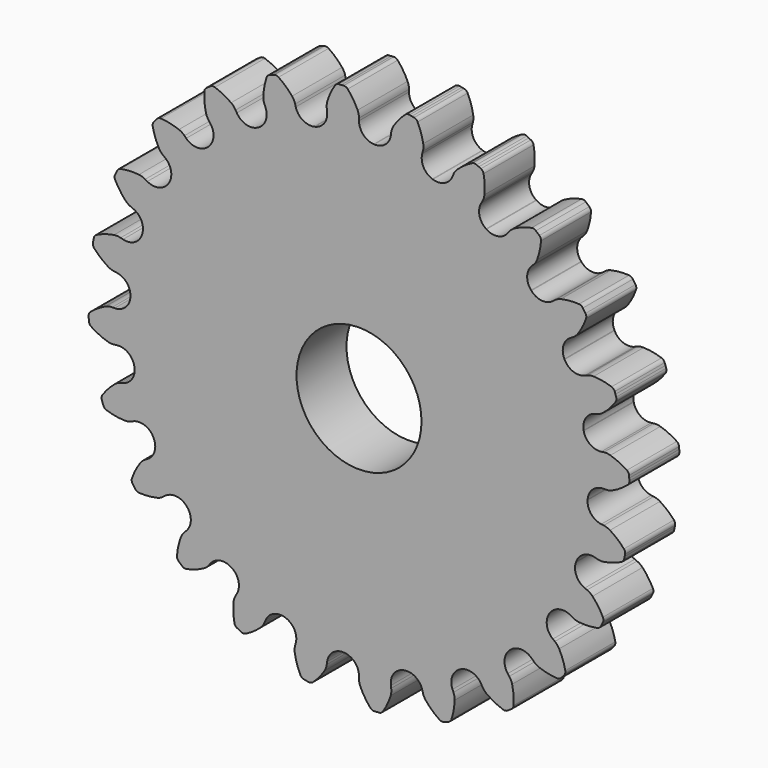
from build123d import *

# Parameters (mm, degrees)
F1_DEPTH = 6.35
F2_R     = 6.35
F3_DEPTH = 6.351


with BuildPart() as f1:
    # F0 (on Front) → F1 (new body)
    with BuildSketch(Plane.XZ):
        with BuildLine():
            ThreePointArc((-3.240676, 24.61538), (-3.526976, 23.473725), (-4.516709, 22.836721))
            ThreePointArc((-4.516709, 22.836721), (-4.541527, 22.831799), (-4.56634, 22.826849))
            ThreePointArc((-4.56634, 22.826849), (-5.724505, 23.036609), (-6.425904, 23.981799))
            Line((-6.425904, 23.981799), (-6.491313, 24.225911))
            ThreePointArc((-6.491313, 24.225911), (-6.61355, 24.54282), (-6.799923, 24.82679))
            ThreePointArc((-6.799923, 24.82679), (-7.441013, 25.500712), (-8.173676, 26.07375))
            ThreePointArc((-8.173676, 26.07375), (-8.389836, 26.155366), (-8.619786, 26.132799))
            Line((-8.619786, 26.132799), (-8.844945, 26.056367))
            Line((-8.844945, 26.056367), (-9.070104, 25.979936))
            ThreePointArc((-9.070104, 25.979936), (-9.266274, 25.857855), (-9.388081, 25.661515))
            ThreePointArc((-9.388081, 25.661515), (-9.620498, 24.760877), (-9.718851, 23.835948))
            ThreePointArc((-9.718851, 23.835948), (-9.69384, 23.497203), (-9.597895, 23.171368))
            Line((-9.597895, 23.171368), (-9.501182, 22.937883))
            ThreePointArc((-9.501182, 22.937883), (-9.482244, 21.761028), (-10.273384, 20.889569))
            ThreePointArc((-10.273384, 20.889569), (-10.296083, 20.87839), (-10.318769, 20.867187))
            ThreePointArc((-10.318769, 20.867187), (-11.49176, 20.770045), (-12.413893, 21.501493))
            Line((-12.413893, 21.501493), (-12.540254, 21.720357))
            ThreePointArc((-12.540254, 21.720357), (-12.740348, 21.994831), (-12.993867, 22.220889))
            ThreePointArc((-12.993867, 22.220889), (-13.787536, 22.705921), (-14.643548, 23.069806))
            ThreePointArc((-14.643548, 23.069806), (-14.873466, 23.092694), (-15.08974, 23.01138))
            Line((-15.08974, 23.01138), (-15.287445, 22.879278))
            Line((-15.287445, 22.879278), (-15.48515, 22.747176))
            ThreePointArc((-15.48515, 22.747176), (-15.643038, 22.578482), (-15.709878, 22.357306))
            ThreePointArc((-15.709878, 22.357306), (-15.701274, 21.427202), (-15.556887, 20.508334))
            ThreePointArc((-15.556887, 20.508334), (-15.445054, 20.187605), (-15.268046, 19.897705))
            Line((-15.268046, 19.897705), (-15.114198, 19.697206))
            ThreePointArc((-15.114198, 19.697206), (-14.791313, 18.565354), (-15.329945, 17.518826))
            ThreePointArc((-15.329945, 17.518826), (-15.348977, 17.502154), (-15.367991, 17.485461))
            ThreePointArc((-15.367991, 17.485461), (-16.475871, 17.088036), (-17.555895, 17.555895))
            Line((-17.555895, 17.555895), (-17.734598, 17.734598))
            ThreePointArc((-17.734598, 17.734598), (-17.998913, 17.947931), (-18.302301, 18.10067))
            ThreePointArc((-18.302301, 18.10067), (-19.194462, 18.363758), (-20.115486, 18.493692))
            ThreePointArc((-20.115486, 18.493692), (-20.343494, 18.456293), (-20.531353, 18.321775))
            Line((-20.531353, 18.321775), (-20.688131, 18.143004))
            Line((-20.688131, 18.143004), (-20.844909, 17.964233))
            ThreePointArc((-20.844909, 17.964233), (-20.953756, 17.760423), (-20.961074, 17.529484))
            ThreePointArc((-20.961074, 17.529484), (-20.712034, 16.6333), (-20.334746, 15.783111))
            ThreePointArc((-20.334746, 15.783111), (-20.143713, 15.502255), (-19.897705, 15.268046))
            Line((-19.897705, 15.268046), (-19.697206, 15.114198))
            ThreePointArc((-19.697206, 15.114198), (-19.092378, 14.104481), (-19.341796, 12.954205))
            ThreePointArc((-19.341796, 12.954205), (-19.355864, 12.933175), (-19.36991, 12.91213))
            ThreePointArc((-19.36991, 12.91213), (-20.337179, 12.241506), (-21.501493, 12.413893))
            Line((-21.501493, 12.413893), (-21.720357, 12.540254))
            ThreePointArc((-21.720357, 12.540254), (-22.030881, 12.677908), (-22.363463, 12.74692))
            ThreePointArc((-22.363463, 12.74692), (-23.293317, 12.770136), (-24.216587, 12.657264))
            ThreePointArc((-24.216587, 12.657264), (-24.427146, 12.562127), (-24.573788, 12.38357))
            Line((-24.573788, 12.38357), (-24.678955, 12.170314))
            Line((-24.678955, 12.170314), (-24.784121, 11.957057))
            ThreePointArc((-24.784121, 11.957057), (-24.83651, 11.73202), (-24.783807, 11.507056))
            ThreePointArc((-24.783807, 11.507056), (-24.311303, 10.705865), (-23.726826, 9.982295))
            ThreePointArc((-23.726826, 9.982295), (-23.469612, 9.760451), (-23.171368, 9.597895))
            Line((-23.171368, 9.597895), (-22.937883, 9.501182))
            ThreePointArc((-22.937883, 9.501182), (-22.09233, 8.682412), (-22.035535, 7.506776))
            ThreePointArc((-22.035535, 7.506776), (-22.043681, 7.482821), (-22.051801, 7.458858))
            ThreePointArc((-22.051801, 7.458858), (-22.812541, 6.560738), (-23.981799, 6.425904))
            Line((-23.981799, 6.425904), (-24.225911, 6.491313))
            ThreePointArc((-24.225911, 6.491313), (-24.561481, 6.543908), (-24.900593, 6.524489))
            ThreePointArc((-24.900593, 6.524489), (-25.804771, 6.30625), (-26.667368, 5.958264))
            ThreePointArc((-26.667368, 5.958264), (-26.846129, 5.811872), (-26.94156, 5.601446))
            Line((-26.94156, 5.601446), (-26.987948, 5.368237))
            Line((-26.987948, 5.368237), (-27.034337, 5.135028))
            ThreePointArc((-27.034337, 5.135028), (-27.026696, 4.904099), (-26.917565, 4.700441))
            ThreePointArc((-26.917565, 4.700441), (-26.253797, 4.048843), (-25.501962, 3.501202))
            ThreePointArc((-25.501962, 3.501202), (-25.196095, 3.35349), (-24.865941, 3.273663))
            Line((-24.865941, 3.273663), (-24.61538, 3.240676))
            ThreePointArc((-24.61538, 3.240676), (-23.586725, 2.66865), (-23.227589, 1.547773))
            ThreePointArc((-23.227589, 1.547773), (-23.229258, 1.522526), (-23.230899, 1.497277))
            ThreePointArc((-23.230899, 1.497277), (-23.733266, 0.432866), (-24.827785, 0))
            Line((-24.827785, 0), (-25.080508, 0))
            ThreePointArc((-25.080508, 0), (-25.418257, -0.03605), (-25.740788, -0.142575))
            ThreePointArc((-25.740788, -0.142575), (-26.557673, -0.587396), (-27.300812, -1.146781))
            ThreePointArc((-27.300812, -1.146781), (-27.435592, -1.334452), (-27.47331, -1.562408))
            Line((-27.47331, -1.562408), (-27.457758, -1.799677))
            Line((-27.457758, -1.799677), (-27.442207, -2.036945))
            ThreePointArc((-27.442207, -2.036945), (-27.375058, -2.258028), (-27.216935, -2.426501))
            ThreePointArc((-27.216935, -2.426501), (-26.407139, -2.884101), (-25.539181, -3.218492))
            ThreePointArc((-25.539181, -3.218492), (-25.205506, -3.282007), (-24.865941, -3.273663))
            Line((-24.865941, -3.273663), (-24.61538, -3.240676))
            ThreePointArc((-24.61538, -3.240676), (-23.473725, -3.526976), (-22.836721, -4.516709))
            ThreePointArc((-22.836721, -4.516709), (-22.831799, -4.541527), (-22.826849, -4.56634))
            ThreePointArc((-22.826849, -4.56634), (-23.036609, -5.724505), (-23.981799, -6.425904))
            Line((-23.981799, -6.425904), (-24.225911, -6.491313))
            ThreePointArc((-24.225911, -6.491313), (-24.54282, -6.61355), (-24.82679, -6.799923))
            ThreePointArc((-24.82679, -6.799923), (-25.500712, -7.441013), (-26.07375, -8.173676))
            ThreePointArc((-26.07375, -8.173676), (-26.155366, -8.389836), (-26.132799, -8.619786))
            Line((-26.132799, -8.619786), (-26.056367, -8.844945))
            Line((-26.056367, -8.844945), (-25.979936, -9.070104))
            ThreePointArc((-25.979936, -9.070104), (-25.857855, -9.266274), (-25.661515, -9.388081))
            ThreePointArc((-25.661515, -9.388081), (-24.760877, -9.620498), (-23.835948, -9.718851))
            ThreePointArc((-23.835948, -9.718851), (-23.497203, -9.69384), (-23.171368, -9.597895))
            Line((-23.171368, -9.597895), (-22.937883, -9.501182))
            ThreePointArc((-22.937883, -9.501182), (-21.761028, -9.482244), (-20.889569, -10.273384))
            ThreePointArc((-20.889569, -10.273384), (-20.87839, -10.296083), (-20.867187, -10.318769))
            ThreePointArc((-20.867187, -10.318769), (-20.770045, -11.49176), (-21.501493, -12.413893))
            Line((-21.501493, -12.413893), (-21.720357, -12.540254))
            ThreePointArc((-21.720357, -12.540254), (-21.994831, -12.740348), (-22.220889, -12.993867))
            ThreePointArc((-22.220889, -12.993867), (-22.705921, -13.787536), (-23.069806, -14.643548))
            ThreePointArc((-23.069806, -14.643548), (-23.092694, -14.873466), (-23.01138, -15.08974))
            Line((-23.01138, -15.08974), (-22.879278, -15.287445))
            Line((-22.879278, -15.287445), (-22.747176, -15.48515))
            ThreePointArc((-22.747176, -15.48515), (-22.578482, -15.643038), (-22.357306, -15.709878))
            ThreePointArc((-22.357306, -15.709878), (-21.427202, -15.701274), (-20.508334, -15.556887))
            ThreePointArc((-20.508334, -15.556887), (-20.187605, -15.445054), (-19.897705, -15.268046))
            Line((-19.897705, -15.268046), (-19.697206, -15.114198))
            ThreePointArc((-19.697206, -15.114198), (-18.565354, -14.791313), (-17.518826, -15.329945))
            ThreePointArc((-17.518826, -15.329945), (-17.502154, -15.348977), (-17.485461, -15.367991))
            ThreePointArc((-17.485461, -15.367991), (-17.088036, -16.475871), (-17.555895, -17.555895))
            Line((-17.555895, -17.555895), (-17.734598, -17.734598))
            ThreePointArc((-17.734598, -17.734598), (-17.947931, -17.998913), (-18.10067, -18.302301))
            ThreePointArc((-18.10067, -18.302301), (-18.363758, -19.194462), (-18.493692, -20.115486))
            ThreePointArc((-18.493692, -20.115486), (-18.456293, -20.343494), (-18.321775, -20.531353))
            Line((-18.321775, -20.531353), (-18.143004, -20.688131))
            Line((-18.143004, -20.688131), (-17.964233, -20.844909))
            ThreePointArc((-17.964233, -20.844909), (-17.760423, -20.953756), (-17.529484, -20.961074))
            ThreePointArc((-17.529484, -20.961074), (-16.6333, -20.712034), (-15.783111, -20.334746))
            ThreePointArc((-15.783111, -20.334746), (-15.502255, -20.143713), (-15.268046, -19.897705))
            Line((-15.268046, -19.897705), (-15.114198, -19.697206))
            ThreePointArc((-15.114198, -19.697206), (-14.104481, -19.092378), (-12.954205, -19.341796))
            ThreePointArc((-12.954205, -19.341796), (-12.933175, -19.355864), (-12.91213, -19.36991))
            ThreePointArc((-12.91213, -19.36991), (-12.241506, -20.337179), (-12.413893, -21.501493))
            Line((-12.413893, -21.501493), (-12.540254, -21.720357))
            ThreePointArc((-12.540254, -21.720357), (-12.677908, -22.030881), (-12.74692, -22.363463))
            ThreePointArc((-12.74692, -22.363463), (-12.770136, -23.293317), (-12.657264, -24.216587))
            ThreePointArc((-12.657264, -24.216587), (-12.562127, -24.427146), (-12.38357, -24.573788))
            Line((-12.38357, -24.573788), (-12.170314, -24.678955))
            Line((-12.170314, -24.678955), (-11.957057, -24.784121))
            ThreePointArc((-11.957057, -24.784121), (-11.73202, -24.83651), (-11.507056, -24.783807))
            ThreePointArc((-11.507056, -24.783807), (-10.705865, -24.311303), (-9.982295, -23.726826))
            ThreePointArc((-9.982295, -23.726826), (-9.760451, -23.469612), (-9.597895, -23.171368))
            Line((-9.597895, -23.171368), (-9.501182, -22.937883))
            ThreePointArc((-9.501182, -22.937883), (-8.682412, -22.09233), (-7.506776, -22.035535))
            ThreePointArc((-7.506776, -22.035535), (-7.482821, -22.043681), (-7.458858, -22.051801))
            ThreePointArc((-7.458858, -22.051801), (-6.560738, -22.812541), (-6.425904, -23.981799))
            Line((-6.425904, -23.981799), (-6.491313, -24.225911))
            ThreePointArc((-6.491313, -24.225911), (-6.543908, -24.561481), (-6.524489, -24.900593))
            ThreePointArc((-6.524489, -24.900593), (-6.30625, -25.804771), (-5.958264, -26.667368))
            ThreePointArc((-5.958264, -26.667368), (-5.811872, -26.846129), (-5.601446, -26.94156))
            Line((-5.601446, -26.94156), (-5.368237, -26.987948))
            Line((-5.368237, -26.987948), (-5.135028, -27.034337))
            ThreePointArc((-5.135028, -27.034337), (-4.904099, -27.026696), (-4.700441, -26.917565))
            ThreePointArc((-4.700441, -26.917565), (-4.048843, -26.253797), (-3.501202, -25.501962))
            ThreePointArc((-3.501202, -25.501962), (-3.35349, -25.196095), (-3.273663, -24.865941))
            Line((-3.273663, -24.865941), (-3.240676, -24.61538))
            ThreePointArc((-3.240676, -24.61538), (-2.66865, -23.586725), (-1.547773, -23.227589))
            ThreePointArc((-1.547773, -23.227589), (-1.522526, -23.229258), (-1.497277, -23.230899))
            ThreePointArc((-1.497277, -23.230899), (-0.432866, -23.733266), (0, -24.827785))
            Line((0, -24.827785), (0, -25.080508))
            ThreePointArc((0, -25.080508), (0.03605, -25.418257), (0.142575, -25.740788))
            ThreePointArc((0.142575, -25.740788), (0.587396, -26.557673), (1.146781, -27.300812))
            ThreePointArc((1.146781, -27.300812), (1.334452, -27.435592), (1.562408, -27.47331))
            Line((1.562408, -27.47331), (1.799677, -27.457758))
            Line((1.799677, -27.457758), (2.036945, -27.442207))
            ThreePointArc((2.036945, -27.442207), (2.258028, -27.375058), (2.426501, -27.216935))
            ThreePointArc((2.426501, -27.216935), (2.884101, -26.407139), (3.218492, -25.539181))
            ThreePointArc((3.218492, -25.539181), (3.282007, -25.205506), (3.273663, -24.865941))
            Line((3.273663, -24.865941), (3.240676, -24.61538))
            ThreePointArc((3.240676, -24.61538), (3.526976, -23.473725), (4.516709, -22.836721))
            ThreePointArc((4.516709, -22.836721), (4.541527, -22.831799), (4.56634, -22.826849))
            ThreePointArc((4.56634, -22.826849), (5.724505, -23.036609), (6.425904, -23.981799))
            Line((6.425904, -23.981799), (6.491313, -24.225911))
            ThreePointArc((6.491313, -24.225911), (6.61355, -24.54282), (6.799923, -24.82679))
            ThreePointArc((6.799923, -24.82679), (7.441013, -25.500712), (8.173676, -26.07375))
            ThreePointArc((8.173676, -26.07375), (8.389836, -26.155366), (8.619786, -26.132799))
            Line((8.619786, -26.132799), (8.844945, -26.056367))
            Line((8.844945, -26.056367), (9.070104, -25.979936))
            ThreePointArc((9.070104, -25.979936), (9.266274, -25.857855), (9.388081, -25.661515))
            ThreePointArc((9.388081, -25.661515), (9.620498, -24.760877), (9.718851, -23.835948))
            ThreePointArc((9.718851, -23.835948), (9.69384, -23.497203), (9.597895, -23.171368))
            Line((9.597895, -23.171368), (9.501182, -22.937883))
            ThreePointArc((9.501182, -22.937883), (9.482244, -21.761028), (10.273384, -20.889569))
            ThreePointArc((10.273384, -20.889569), (10.296083, -20.87839), (10.318769, -20.867187))
            ThreePointArc((10.318769, -20.867187), (11.49176, -20.770045), (12.413893, -21.501493))
            Line((12.413893, -21.501493), (12.540254, -21.720357))
            ThreePointArc((12.540254, -21.720357), (12.740348, -21.994831), (12.993867, -22.220889))
            ThreePointArc((12.993867, -22.220889), (13.787536, -22.705921), (14.643548, -23.069806))
            ThreePointArc((14.643548, -23.069806), (14.873466, -23.092694), (15.08974, -23.01138))
            Line((15.08974, -23.01138), (15.287445, -22.879278))
            Line((15.287445, -22.879278), (15.48515, -22.747176))
            ThreePointArc((15.48515, -22.747176), (15.643038, -22.578482), (15.709878, -22.357306))
            ThreePointArc((15.709878, -22.357306), (15.701274, -21.427202), (15.556887, -20.508334))
            ThreePointArc((15.556887, -20.508334), (15.445054, -20.187605), (15.268046, -19.897705))
            Line((15.268046, -19.897705), (15.114198, -19.697206))
            ThreePointArc((15.114198, -19.697206), (14.791313, -18.565354), (15.329945, -17.518826))
            ThreePointArc((15.329945, -17.518826), (15.348977, -17.502154), (15.367991, -17.485461))
            ThreePointArc((15.367991, -17.485461), (16.475871, -17.088036), (17.555895, -17.555895))
            Line((17.555895, -17.555895), (17.734598, -17.734598))
            ThreePointArc((17.734598, -17.734598), (17.998913, -17.947931), (18.302301, -18.10067))
            ThreePointArc((18.302301, -18.10067), (19.194462, -18.363758), (20.115486, -18.493692))
            ThreePointArc((20.115486, -18.493692), (20.343494, -18.456293), (20.531353, -18.321775))
            Line((20.531353, -18.321775), (20.688131, -18.143004))
            Line((20.688131, -18.143004), (20.844909, -17.964233))
            ThreePointArc((20.844909, -17.964233), (20.953756, -17.760423), (20.961074, -17.529484))
            ThreePointArc((20.961074, -17.529484), (20.712034, -16.6333), (20.334746, -15.783111))
            ThreePointArc((20.334746, -15.783111), (20.143713, -15.502255), (19.897705, -15.268046))
            Line((19.897705, -15.268046), (19.697206, -15.114198))
            ThreePointArc((19.697206, -15.114198), (19.092378, -14.104481), (19.341796, -12.954205))
            ThreePointArc((19.341796, -12.954205), (19.355864, -12.933175), (19.36991, -12.91213))
            ThreePointArc((19.36991, -12.91213), (20.337179, -12.241506), (21.501493, -12.413893))
            Line((21.501493, -12.413893), (21.720357, -12.540254))
            ThreePointArc((21.720357, -12.540254), (22.030881, -12.677908), (22.363463, -12.74692))
            ThreePointArc((22.363463, -12.74692), (23.293317, -12.770136), (24.216587, -12.657264))
            ThreePointArc((24.216587, -12.657264), (24.427146, -12.562127), (24.573788, -12.38357))
            Line((24.573788, -12.38357), (24.678955, -12.170314))
            Line((24.678955, -12.170314), (24.784121, -11.957057))
            ThreePointArc((24.784121, -11.957057), (24.83651, -11.73202), (24.783807, -11.507056))
            ThreePointArc((24.783807, -11.507056), (24.311303, -10.705865), (23.726826, -9.982295))
            ThreePointArc((23.726826, -9.982295), (23.469612, -9.760451), (23.171368, -9.597895))
            Line((23.171368, -9.597895), (22.937883, -9.501182))
            ThreePointArc((22.937883, -9.501182), (22.09233, -8.682412), (22.035535, -7.506776))
            ThreePointArc((22.035535, -7.506776), (22.043681, -7.482821), (22.051801, -7.458858))
            ThreePointArc((22.051801, -7.458858), (22.812541, -6.560738), (23.981799, -6.425904))
            Line((23.981799, -6.425904), (24.225911, -6.491313))
            ThreePointArc((24.225911, -6.491313), (24.561481, -6.543908), (24.900593, -6.524489))
            ThreePointArc((24.900593, -6.524489), (25.804771, -6.30625), (26.667368, -5.958264))
            ThreePointArc((26.667368, -5.958264), (26.846129, -5.811872), (26.94156, -5.601446))
            Line((26.94156, -5.601446), (26.987948, -5.368237))
            Line((26.987948, -5.368237), (27.034337, -5.135028))
            ThreePointArc((27.034337, -5.135028), (27.026696, -4.904099), (26.917565, -4.700441))
            ThreePointArc((26.917565, -4.700441), (26.253797, -4.048843), (25.501962, -3.501202))
            ThreePointArc((25.501962, -3.501202), (25.196095, -3.35349), (24.865941, -3.273663))
            Line((24.865941, -3.273663), (24.61538, -3.240676))
            ThreePointArc((24.61538, -3.240676), (23.586725, -2.66865), (23.227589, -1.547773))
            ThreePointArc((23.227589, -1.547773), (23.229258, -1.522526), (23.230899, -1.497277))
            ThreePointArc((23.230899, -1.497277), (23.733266, -0.432866), (24.827785, 0))
            Line((24.827785, 0), (25.080508, 0))
            ThreePointArc((25.080508, 0), (25.418257, 0.03605), (25.740788, 0.142575))
            ThreePointArc((25.740788, 0.142575), (26.557673, 0.587396), (27.300812, 1.146781))
            ThreePointArc((27.300812, 1.146781), (27.435592, 1.334452), (27.47331, 1.562408))
            Line((27.47331, 1.562408), (27.457758, 1.799677))
            Line((27.457758, 1.799677), (27.442207, 2.036945))
            ThreePointArc((27.442207, 2.036945), (27.375058, 2.258028), (27.216935, 2.426501))
            ThreePointArc((27.216935, 2.426501), (26.407139, 2.884101), (25.539181, 3.218492))
            ThreePointArc((25.539181, 3.218492), (25.205506, 3.282007), (24.865941, 3.273663))
            Line((24.865941, 3.273663), (24.61538, 3.240676))
            ThreePointArc((24.61538, 3.240676), (23.473725, 3.526976), (22.836721, 4.516709))
            ThreePointArc((22.836721, 4.516709), (22.831799, 4.541527), (22.826849, 4.56634))
            ThreePointArc((22.826849, 4.56634), (23.036609, 5.724505), (23.981799, 6.425904))
            Line((23.981799, 6.425904), (24.225911, 6.491313))
            ThreePointArc((24.225911, 6.491313), (24.54282, 6.61355), (24.82679, 6.799923))
            ThreePointArc((24.82679, 6.799923), (25.500712, 7.441013), (26.07375, 8.173676))
            ThreePointArc((26.07375, 8.173676), (26.155366, 8.389836), (26.132799, 8.619786))
            Line((26.132799, 8.619786), (26.056367, 8.844945))
            Line((26.056367, 8.844945), (25.979936, 9.070104))
            ThreePointArc((25.979936, 9.070104), (25.857855, 9.266274), (25.661515, 9.388081))
            ThreePointArc((25.661515, 9.388081), (24.760877, 9.620498), (23.835948, 9.718851))
            ThreePointArc((23.835948, 9.718851), (23.497203, 9.69384), (23.171368, 9.597895))
            Line((23.171368, 9.597895), (22.937883, 9.501182))
            ThreePointArc((22.937883, 9.501182), (21.761028, 9.482244), (20.889569, 10.273384))
            ThreePointArc((20.889569, 10.273384), (20.87839, 10.296083), (20.867187, 10.318769))
            ThreePointArc((20.867187, 10.318769), (20.770045, 11.49176), (21.501493, 12.413893))
            Line((21.501493, 12.413893), (21.720357, 12.540254))
            ThreePointArc((21.720357, 12.540254), (21.994831, 12.740348), (22.220889, 12.993867))
            ThreePointArc((22.220889, 12.993867), (22.705921, 13.787536), (23.069806, 14.643548))
            ThreePointArc((23.069806, 14.643548), (23.092694, 14.873466), (23.01138, 15.08974))
            Line((23.01138, 15.08974), (22.879278, 15.287445))
            Line((22.879278, 15.287445), (22.747176, 15.48515))
            ThreePointArc((22.747176, 15.48515), (22.578482, 15.643038), (22.357306, 15.709878))
            ThreePointArc((22.357306, 15.709878), (21.427202, 15.701274), (20.508334, 15.556887))
            ThreePointArc((20.508334, 15.556887), (20.187605, 15.445054), (19.897705, 15.268046))
            Line((19.897705, 15.268046), (19.697206, 15.114198))
            ThreePointArc((19.697206, 15.114198), (18.565354, 14.791313), (17.518826, 15.329945))
            ThreePointArc((17.518826, 15.329945), (17.502154, 15.348977), (17.485461, 15.367991))
            ThreePointArc((17.485461, 15.367991), (17.088036, 16.475871), (17.555895, 17.555895))
            Line((17.555895, 17.555895), (17.734598, 17.734598))
            ThreePointArc((17.734598, 17.734598), (17.947931, 17.998913), (18.10067, 18.302301))
            ThreePointArc((18.10067, 18.302301), (18.363758, 19.194462), (18.493692, 20.115486))
            ThreePointArc((18.493692, 20.115486), (18.456293, 20.343494), (18.321775, 20.531353))
            Line((18.321775, 20.531353), (18.143004, 20.688131))
            Line((18.143004, 20.688131), (17.964233, 20.844909))
            ThreePointArc((17.964233, 20.844909), (17.760423, 20.953756), (17.529484, 20.961074))
            ThreePointArc((17.529484, 20.961074), (16.6333, 20.712034), (15.783111, 20.334746))
            ThreePointArc((15.783111, 20.334746), (15.502255, 20.143713), (15.268046, 19.897705))
            Line((15.268046, 19.897705), (15.114198, 19.697206))
            ThreePointArc((15.114198, 19.697206), (14.104481, 19.092378), (12.954205, 19.341796))
            ThreePointArc((12.954205, 19.341796), (12.933175, 19.355864), (12.91213, 19.36991))
            ThreePointArc((12.91213, 19.36991), (12.241506, 20.337179), (12.413893, 21.501493))
            Line((12.413893, 21.501493), (12.540254, 21.720357))
            ThreePointArc((12.540254, 21.720357), (12.677908, 22.030881), (12.74692, 22.363463))
            ThreePointArc((12.74692, 22.363463), (12.770136, 23.293317), (12.657264, 24.216587))
            ThreePointArc((12.657264, 24.216587), (12.562127, 24.427146), (12.38357, 24.573788))
            Line((12.38357, 24.573788), (12.170314, 24.678955))
            Line((12.170314, 24.678955), (11.957057, 24.784121))
            ThreePointArc((11.957057, 24.784121), (11.73202, 24.83651), (11.507056, 24.783807))
            ThreePointArc((11.507056, 24.783807), (10.705865, 24.311303), (9.982295, 23.726826))
            ThreePointArc((9.982295, 23.726826), (9.760451, 23.469612), (9.597895, 23.171368))
            Line((9.597895, 23.171368), (9.501182, 22.937883))
            ThreePointArc((9.501182, 22.937883), (8.682412, 22.09233), (7.506776, 22.035535))
            ThreePointArc((7.506776, 22.035535), (7.482821, 22.043681), (7.458858, 22.051801))
            ThreePointArc((7.458858, 22.051801), (6.560738, 22.812541), (6.425904, 23.981799))
            Line((6.425904, 23.981799), (6.491313, 24.225911))
            ThreePointArc((6.491313, 24.225911), (6.543908, 24.561481), (6.524489, 24.900593))
            ThreePointArc((6.524489, 24.900593), (6.30625, 25.804771), (5.958264, 26.667368))
            ThreePointArc((5.958264, 26.667368), (5.811872, 26.846129), (5.601446, 26.94156))
            Line((5.601446, 26.94156), (5.368237, 26.987948))
            Line((5.368237, 26.987948), (5.135028, 27.034337))
            ThreePointArc((5.135028, 27.034337), (4.904099, 27.026696), (4.700441, 26.917565))
            ThreePointArc((4.700441, 26.917565), (4.048843, 26.253797), (3.501202, 25.501962))
            ThreePointArc((3.501202, 25.501962), (3.35349, 25.196095), (3.273663, 24.865941))
            Line((3.273663, 24.865941), (3.240676, 24.61538))
            ThreePointArc((3.240676, 24.61538), (2.66865, 23.586725), (1.547773, 23.227589))
            ThreePointArc((1.547773, 23.227589), (1.522526, 23.229258), (1.497277, 23.230899))
            ThreePointArc((1.497277, 23.230899), (0.432866, 23.733266), (0, 24.827785))
            Line((0, 24.827785), (0, 25.080508))
            ThreePointArc((0, 25.080508), (-0.03605, 25.418257), (-0.142575, 25.740788))
            ThreePointArc((-0.142575, 25.740788), (-0.587396, 26.557673), (-1.146781, 27.300812))
            ThreePointArc((-1.146781, 27.300812), (-1.334452, 27.435592), (-1.562408, 27.47331))
            Line((-1.562408, 27.47331), (-1.799677, 27.457758))
            Line((-1.799677, 27.457758), (-2.036945, 27.442207))
            ThreePointArc((-2.036945, 27.442207), (-2.258028, 27.375058), (-2.426501, 27.216935))
            ThreePointArc((-2.426501, 27.216935), (-2.884101, 26.407139), (-3.218492, 25.539181))
            ThreePointArc((-3.218492, 25.539181), (-3.282007, 25.205506), (-3.273663, 24.865941))
            Line((-3.273663, 24.865941), (-3.240676, 24.61538))
        make_face()
        with BuildLine():
            ThreePointArc((-3.240676, 24.61538), (-3.526976, 23.473725), (-4.516709, 22.836721))
            ThreePointArc((-4.516709, 22.836721), (-4.541527, 22.831799), (-4.56634, 22.826849))
            ThreePointArc((-4.56634, 22.826849), (-5.724505, 23.036609), (-6.425904, 23.981799))
            Line((-6.425904, 23.981799), (-6.491313, 24.225911))
            ThreePointArc((-6.491313, 24.225911), (-6.61355, 24.54282), (-6.799923, 24.82679))
            ThreePointArc((-6.799923, 24.82679), (-7.441013, 25.500712), (-8.173676, 26.07375))
            ThreePointArc((-8.173676, 26.07375), (-8.389836, 26.155366), (-8.619786, 26.132799))
            Line((-8.619786, 26.132799), (-8.844945, 26.056367))
            Line((-8.844945, 26.056367), (-9.070104, 25.979936))
            ThreePointArc((-9.070104, 25.979936), (-9.266274, 25.857855), (-9.388081, 25.661515))
            ThreePointArc((-9.388081, 25.661515), (-9.620498, 24.760877), (-9.718851, 23.835948))
            ThreePointArc((-9.718851, 23.835948), (-9.69384, 23.497203), (-9.597895, 23.171368))
            Line((-9.597895, 23.171368), (-9.501182, 22.937883))
            ThreePointArc((-9.501182, 22.937883), (-9.482244, 21.761028), (-10.273384, 20.889569))
            ThreePointArc((-10.273384, 20.889569), (-10.296083, 20.87839), (-10.318769, 20.867187))
            ThreePointArc((-10.318769, 20.867187), (-11.49176, 20.770045), (-12.413893, 21.501493))
            Line((-12.413893, 21.501493), (-12.540254, 21.720357))
            ThreePointArc((-12.540254, 21.720357), (-12.740348, 21.994831), (-12.993867, 22.220889))
            ThreePointArc((-12.993867, 22.220889), (-13.787536, 22.705921), (-14.643548, 23.069806))
            ThreePointArc((-14.643548, 23.069806), (-14.873466, 23.092694), (-15.08974, 23.01138))
            Line((-15.08974, 23.01138), (-15.287445, 22.879278))
            Line((-15.287445, 22.879278), (-15.48515, 22.747176))
            ThreePointArc((-15.48515, 22.747176), (-15.643038, 22.578482), (-15.709878, 22.357306))
            ThreePointArc((-15.709878, 22.357306), (-15.701274, 21.427202), (-15.556887, 20.508334))
            ThreePointArc((-15.556887, 20.508334), (-15.445054, 20.187605), (-15.268046, 19.897705))
            Line((-15.268046, 19.897705), (-15.114198, 19.697206))
            ThreePointArc((-15.114198, 19.697206), (-14.791313, 18.565354), (-15.329945, 17.518826))
            ThreePointArc((-15.329945, 17.518826), (-15.348977, 17.502154), (-15.367991, 17.485461))
            ThreePointArc((-15.367991, 17.485461), (-16.475871, 17.088036), (-17.555895, 17.555895))
            Line((-17.555895, 17.555895), (-17.734598, 17.734598))
            ThreePointArc((-17.734598, 17.734598), (-17.998913, 17.947931), (-18.302301, 18.10067))
            ThreePointArc((-18.302301, 18.10067), (-19.194462, 18.363758), (-20.115486, 18.493692))
            ThreePointArc((-20.115486, 18.493692), (-20.343494, 18.456293), (-20.531353, 18.321775))
            Line((-20.531353, 18.321775), (-20.688131, 18.143004))
            Line((-20.688131, 18.143004), (-20.844909, 17.964233))
            ThreePointArc((-20.844909, 17.964233), (-20.953756, 17.760423), (-20.961074, 17.529484))
            ThreePointArc((-20.961074, 17.529484), (-20.712034, 16.6333), (-20.334746, 15.783111))
            ThreePointArc((-20.334746, 15.783111), (-20.143713, 15.502255), (-19.897705, 15.268046))
            Line((-19.897705, 15.268046), (-19.697206, 15.114198))
            ThreePointArc((-19.697206, 15.114198), (-19.092378, 14.104481), (-19.341796, 12.954205))
            ThreePointArc((-19.341796, 12.954205), (-19.355864, 12.933175), (-19.36991, 12.91213))
            ThreePointArc((-19.36991, 12.91213), (-20.337179, 12.241506), (-21.501493, 12.413893))
            Line((-21.501493, 12.413893), (-21.720357, 12.540254))
            ThreePointArc((-21.720357, 12.540254), (-22.030881, 12.677908), (-22.363463, 12.74692))
            ThreePointArc((-22.363463, 12.74692), (-23.293317, 12.770136), (-24.216587, 12.657264))
            ThreePointArc((-24.216587, 12.657264), (-24.427146, 12.562127), (-24.573788, 12.38357))
            Line((-24.573788, 12.38357), (-24.678955, 12.170314))
            Line((-24.678955, 12.170314), (-24.784121, 11.957057))
            ThreePointArc((-24.784121, 11.957057), (-24.83651, 11.73202), (-24.783807, 11.507056))
            ThreePointArc((-24.783807, 11.507056), (-24.311303, 10.705865), (-23.726826, 9.982295))
            ThreePointArc((-23.726826, 9.982295), (-23.469612, 9.760451), (-23.171368, 9.597895))
            Line((-23.171368, 9.597895), (-22.937883, 9.501182))
            ThreePointArc((-22.937883, 9.501182), (-22.09233, 8.682412), (-22.035535, 7.506776))
            ThreePointArc((-22.035535, 7.506776), (-22.043681, 7.482821), (-22.051801, 7.458858))
            ThreePointArc((-22.051801, 7.458858), (-22.812541, 6.560738), (-23.981799, 6.425904))
            Line((-23.981799, 6.425904), (-24.225911, 6.491313))
            ThreePointArc((-24.225911, 6.491313), (-24.561481, 6.543908), (-24.900593, 6.524489))
            ThreePointArc((-24.900593, 6.524489), (-25.804771, 6.30625), (-26.667368, 5.958264))
            ThreePointArc((-26.667368, 5.958264), (-26.846129, 5.811872), (-26.94156, 5.601446))
            Line((-26.94156, 5.601446), (-26.987948, 5.368237))
            Line((-26.987948, 5.368237), (-27.034337, 5.135028))
            ThreePointArc((-27.034337, 5.135028), (-27.026696, 4.904099), (-26.917565, 4.700441))
            ThreePointArc((-26.917565, 4.700441), (-26.253797, 4.048843), (-25.501962, 3.501202))
            ThreePointArc((-25.501962, 3.501202), (-25.196095, 3.35349), (-24.865941, 3.273663))
            Line((-24.865941, 3.273663), (-24.61538, 3.240676))
            ThreePointArc((-24.61538, 3.240676), (-23.586725, 2.66865), (-23.227589, 1.547773))
            ThreePointArc((-23.227589, 1.547773), (-23.229258, 1.522526), (-23.230899, 1.497277))
            ThreePointArc((-23.230899, 1.497277), (-23.733266, 0.432866), (-24.827785, 0))
            Line((-24.827785, 0), (-25.080508, 0))
            ThreePointArc((-25.080508, 0), (-25.418257, -0.03605), (-25.740788, -0.142575))
            ThreePointArc((-25.740788, -0.142575), (-26.557673, -0.587396), (-27.300812, -1.146781))
            ThreePointArc((-27.300812, -1.146781), (-27.435592, -1.334452), (-27.47331, -1.562408))
            Line((-27.47331, -1.562408), (-27.457758, -1.799677))
            Line((-27.457758, -1.799677), (-27.442207, -2.036945))
            ThreePointArc((-27.442207, -2.036945), (-27.375058, -2.258028), (-27.216935, -2.426501))
            ThreePointArc((-27.216935, -2.426501), (-26.407139, -2.884101), (-25.539181, -3.218492))
            ThreePointArc((-25.539181, -3.218492), (-25.205506, -3.282007), (-24.865941, -3.273663))
            Line((-24.865941, -3.273663), (-24.61538, -3.240676))
            ThreePointArc((-24.61538, -3.240676), (-23.473725, -3.526976), (-22.836721, -4.516709))
            ThreePointArc((-22.836721, -4.516709), (-22.831799, -4.541527), (-22.826849, -4.56634))
            ThreePointArc((-22.826849, -4.56634), (-23.036609, -5.724505), (-23.981799, -6.425904))
            Line((-23.981799, -6.425904), (-24.225911, -6.491313))
            ThreePointArc((-24.225911, -6.491313), (-24.54282, -6.61355), (-24.82679, -6.799923))
            ThreePointArc((-24.82679, -6.799923), (-25.500712, -7.441013), (-26.07375, -8.173676))
            ThreePointArc((-26.07375, -8.173676), (-26.155366, -8.389836), (-26.132799, -8.619786))
            Line((-26.132799, -8.619786), (-26.056367, -8.844945))
            Line((-26.056367, -8.844945), (-25.979936, -9.070104))
            ThreePointArc((-25.979936, -9.070104), (-25.857855, -9.266274), (-25.661515, -9.388081))
            ThreePointArc((-25.661515, -9.388081), (-24.760877, -9.620498), (-23.835948, -9.718851))
            ThreePointArc((-23.835948, -9.718851), (-23.497203, -9.69384), (-23.171368, -9.597895))
            Line((-23.171368, -9.597895), (-22.937883, -9.501182))
            ThreePointArc((-22.937883, -9.501182), (-21.761028, -9.482244), (-20.889569, -10.273384))
            ThreePointArc((-20.889569, -10.273384), (-20.87839, -10.296083), (-20.867187, -10.318769))
            ThreePointArc((-20.867187, -10.318769), (-20.770045, -11.49176), (-21.501493, -12.413893))
            Line((-21.501493, -12.413893), (-21.720357, -12.540254))
            ThreePointArc((-21.720357, -12.540254), (-21.994831, -12.740348), (-22.220889, -12.993867))
            ThreePointArc((-22.220889, -12.993867), (-22.705921, -13.787536), (-23.069806, -14.643548))
            ThreePointArc((-23.069806, -14.643548), (-23.092694, -14.873466), (-23.01138, -15.08974))
            Line((-23.01138, -15.08974), (-22.879278, -15.287445))
            Line((-22.879278, -15.287445), (-22.747176, -15.48515))
            ThreePointArc((-22.747176, -15.48515), (-22.578482, -15.643038), (-22.357306, -15.709878))
            ThreePointArc((-22.357306, -15.709878), (-21.427202, -15.701274), (-20.508334, -15.556887))
            ThreePointArc((-20.508334, -15.556887), (-20.187605, -15.445054), (-19.897705, -15.268046))
            Line((-19.897705, -15.268046), (-19.697206, -15.114198))
            ThreePointArc((-19.697206, -15.114198), (-18.565354, -14.791313), (-17.518826, -15.329945))
            ThreePointArc((-17.518826, -15.329945), (-17.502154, -15.348977), (-17.485461, -15.367991))
            ThreePointArc((-17.485461, -15.367991), (-17.088036, -16.475871), (-17.555895, -17.555895))
            Line((-17.555895, -17.555895), (-17.734598, -17.734598))
            ThreePointArc((-17.734598, -17.734598), (-17.947931, -17.998913), (-18.10067, -18.302301))
            ThreePointArc((-18.10067, -18.302301), (-18.363758, -19.194462), (-18.493692, -20.115486))
            ThreePointArc((-18.493692, -20.115486), (-18.456293, -20.343494), (-18.321775, -20.531353))
            Line((-18.321775, -20.531353), (-18.143004, -20.688131))
            Line((-18.143004, -20.688131), (-17.964233, -20.844909))
            ThreePointArc((-17.964233, -20.844909), (-17.760423, -20.953756), (-17.529484, -20.961074))
            ThreePointArc((-17.529484, -20.961074), (-16.6333, -20.712034), (-15.783111, -20.334746))
            ThreePointArc((-15.783111, -20.334746), (-15.502255, -20.143713), (-15.268046, -19.897705))
            Line((-15.268046, -19.897705), (-15.114198, -19.697206))
            ThreePointArc((-15.114198, -19.697206), (-14.104481, -19.092378), (-12.954205, -19.341796))
            ThreePointArc((-12.954205, -19.341796), (-12.933175, -19.355864), (-12.91213, -19.36991))
            ThreePointArc((-12.91213, -19.36991), (-12.241506, -20.337179), (-12.413893, -21.501493))
            Line((-12.413893, -21.501493), (-12.540254, -21.720357))
            ThreePointArc((-12.540254, -21.720357), (-12.677908, -22.030881), (-12.74692, -22.363463))
            ThreePointArc((-12.74692, -22.363463), (-12.770136, -23.293317), (-12.657264, -24.216587))
            ThreePointArc((-12.657264, -24.216587), (-12.562127, -24.427146), (-12.38357, -24.573788))
            Line((-12.38357, -24.573788), (-12.170314, -24.678955))
            Line((-12.170314, -24.678955), (-11.957057, -24.784121))
            ThreePointArc((-11.957057, -24.784121), (-11.73202, -24.83651), (-11.507056, -24.783807))
            ThreePointArc((-11.507056, -24.783807), (-10.705865, -24.311303), (-9.982295, -23.726826))
            ThreePointArc((-9.982295, -23.726826), (-9.760451, -23.469612), (-9.597895, -23.171368))
            Line((-9.597895, -23.171368), (-9.501182, -22.937883))
            ThreePointArc((-9.501182, -22.937883), (-8.682412, -22.09233), (-7.506776, -22.035535))
            ThreePointArc((-7.506776, -22.035535), (-7.482821, -22.043681), (-7.458858, -22.051801))
            ThreePointArc((-7.458858, -22.051801), (-6.560738, -22.812541), (-6.425904, -23.981799))
            Line((-6.425904, -23.981799), (-6.491313, -24.225911))
            ThreePointArc((-6.491313, -24.225911), (-6.543908, -24.561481), (-6.524489, -24.900593))
            ThreePointArc((-6.524489, -24.900593), (-6.30625, -25.804771), (-5.958264, -26.667368))
            ThreePointArc((-5.958264, -26.667368), (-5.811872, -26.846129), (-5.601446, -26.94156))
            Line((-5.601446, -26.94156), (-5.368237, -26.987948))
            Line((-5.368237, -26.987948), (-5.135028, -27.034337))
            ThreePointArc((-5.135028, -27.034337), (-4.904099, -27.026696), (-4.700441, -26.917565))
            ThreePointArc((-4.700441, -26.917565), (-4.048843, -26.253797), (-3.501202, -25.501962))
            ThreePointArc((-3.501202, -25.501962), (-3.35349, -25.196095), (-3.273663, -24.865941))
            Line((-3.273663, -24.865941), (-3.240676, -24.61538))
            ThreePointArc((-3.240676, -24.61538), (-2.66865, -23.586725), (-1.547773, -23.227589))
            ThreePointArc((-1.547773, -23.227589), (-1.522526, -23.229258), (-1.497277, -23.230899))
            ThreePointArc((-1.497277, -23.230899), (-0.432866, -23.733266), (0, -24.827785))
            Line((0, -24.827785), (0, -25.080508))
            ThreePointArc((0, -25.080508), (0.03605, -25.418257), (0.142575, -25.740788))
            ThreePointArc((0.142575, -25.740788), (0.587396, -26.557673), (1.146781, -27.300812))
            ThreePointArc((1.146781, -27.300812), (1.334452, -27.435592), (1.562408, -27.47331))
            Line((1.562408, -27.47331), (1.799677, -27.457758))
            Line((1.799677, -27.457758), (2.036945, -27.442207))
            ThreePointArc((2.036945, -27.442207), (2.258028, -27.375058), (2.426501, -27.216935))
            ThreePointArc((2.426501, -27.216935), (2.884101, -26.407139), (3.218492, -25.539181))
            ThreePointArc((3.218492, -25.539181), (3.282007, -25.205506), (3.273663, -24.865941))
            Line((3.273663, -24.865941), (3.240676, -24.61538))
            ThreePointArc((3.240676, -24.61538), (3.526976, -23.473725), (4.516709, -22.836721))
            ThreePointArc((4.516709, -22.836721), (4.541527, -22.831799), (4.56634, -22.826849))
            ThreePointArc((4.56634, -22.826849), (5.724505, -23.036609), (6.425904, -23.981799))
            Line((6.425904, -23.981799), (6.491313, -24.225911))
            ThreePointArc((6.491313, -24.225911), (6.61355, -24.54282), (6.799923, -24.82679))
            ThreePointArc((6.799923, -24.82679), (7.441013, -25.500712), (8.173676, -26.07375))
            ThreePointArc((8.173676, -26.07375), (8.389836, -26.155366), (8.619786, -26.132799))
            Line((8.619786, -26.132799), (8.844945, -26.056367))
            Line((8.844945, -26.056367), (9.070104, -25.979936))
            ThreePointArc((9.070104, -25.979936), (9.266274, -25.857855), (9.388081, -25.661515))
            ThreePointArc((9.388081, -25.661515), (9.620498, -24.760877), (9.718851, -23.835948))
            ThreePointArc((9.718851, -23.835948), (9.69384, -23.497203), (9.597895, -23.171368))
            Line((9.597895, -23.171368), (9.501182, -22.937883))
            ThreePointArc((9.501182, -22.937883), (9.482244, -21.761028), (10.273384, -20.889569))
            ThreePointArc((10.273384, -20.889569), (10.296083, -20.87839), (10.318769, -20.867187))
            ThreePointArc((10.318769, -20.867187), (11.49176, -20.770045), (12.413893, -21.501493))
            Line((12.413893, -21.501493), (12.540254, -21.720357))
            ThreePointArc((12.540254, -21.720357), (12.740348, -21.994831), (12.993867, -22.220889))
            ThreePointArc((12.993867, -22.220889), (13.787536, -22.705921), (14.643548, -23.069806))
            ThreePointArc((14.643548, -23.069806), (14.873466, -23.092694), (15.08974, -23.01138))
            Line((15.08974, -23.01138), (15.287445, -22.879278))
            Line((15.287445, -22.879278), (15.48515, -22.747176))
            ThreePointArc((15.48515, -22.747176), (15.643038, -22.578482), (15.709878, -22.357306))
            ThreePointArc((15.709878, -22.357306), (15.701274, -21.427202), (15.556887, -20.508334))
            ThreePointArc((15.556887, -20.508334), (15.445054, -20.187605), (15.268046, -19.897705))
            Line((15.268046, -19.897705), (15.114198, -19.697206))
            ThreePointArc((15.114198, -19.697206), (14.791313, -18.565354), (15.329945, -17.518826))
            ThreePointArc((15.329945, -17.518826), (15.348977, -17.502154), (15.367991, -17.485461))
            ThreePointArc((15.367991, -17.485461), (16.475871, -17.088036), (17.555895, -17.555895))
            Line((17.555895, -17.555895), (17.734598, -17.734598))
            ThreePointArc((17.734598, -17.734598), (17.998913, -17.947931), (18.302301, -18.10067))
            ThreePointArc((18.302301, -18.10067), (19.194462, -18.363758), (20.115486, -18.493692))
            ThreePointArc((20.115486, -18.493692), (20.343494, -18.456293), (20.531353, -18.321775))
            Line((20.531353, -18.321775), (20.688131, -18.143004))
            Line((20.688131, -18.143004), (20.844909, -17.964233))
            ThreePointArc((20.844909, -17.964233), (20.953756, -17.760423), (20.961074, -17.529484))
            ThreePointArc((20.961074, -17.529484), (20.712034, -16.6333), (20.334746, -15.783111))
            ThreePointArc((20.334746, -15.783111), (20.143713, -15.502255), (19.897705, -15.268046))
            Line((19.897705, -15.268046), (19.697206, -15.114198))
            ThreePointArc((19.697206, -15.114198), (19.092378, -14.104481), (19.341796, -12.954205))
            ThreePointArc((19.341796, -12.954205), (19.355864, -12.933175), (19.36991, -12.91213))
            ThreePointArc((19.36991, -12.91213), (20.337179, -12.241506), (21.501493, -12.413893))
            Line((21.501493, -12.413893), (21.720357, -12.540254))
            ThreePointArc((21.720357, -12.540254), (22.030881, -12.677908), (22.363463, -12.74692))
            ThreePointArc((22.363463, -12.74692), (23.293317, -12.770136), (24.216587, -12.657264))
            ThreePointArc((24.216587, -12.657264), (24.427146, -12.562127), (24.573788, -12.38357))
            Line((24.573788, -12.38357), (24.678955, -12.170314))
            Line((24.678955, -12.170314), (24.784121, -11.957057))
            ThreePointArc((24.784121, -11.957057), (24.83651, -11.73202), (24.783807, -11.507056))
            ThreePointArc((24.783807, -11.507056), (24.311303, -10.705865), (23.726826, -9.982295))
            ThreePointArc((23.726826, -9.982295), (23.469612, -9.760451), (23.171368, -9.597895))
            Line((23.171368, -9.597895), (22.937883, -9.501182))
            ThreePointArc((22.937883, -9.501182), (22.09233, -8.682412), (22.035535, -7.506776))
            ThreePointArc((22.035535, -7.506776), (22.043681, -7.482821), (22.051801, -7.458858))
            ThreePointArc((22.051801, -7.458858), (22.812541, -6.560738), (23.981799, -6.425904))
            Line((23.981799, -6.425904), (24.225911, -6.491313))
            ThreePointArc((24.225911, -6.491313), (24.561481, -6.543908), (24.900593, -6.524489))
            ThreePointArc((24.900593, -6.524489), (25.804771, -6.30625), (26.667368, -5.958264))
            ThreePointArc((26.667368, -5.958264), (26.846129, -5.811872), (26.94156, -5.601446))
            Line((26.94156, -5.601446), (26.987948, -5.368237))
            Line((26.987948, -5.368237), (27.034337, -5.135028))
            ThreePointArc((27.034337, -5.135028), (27.026696, -4.904099), (26.917565, -4.700441))
            ThreePointArc((26.917565, -4.700441), (26.253797, -4.048843), (25.501962, -3.501202))
            ThreePointArc((25.501962, -3.501202), (25.196095, -3.35349), (24.865941, -3.273663))
            Line((24.865941, -3.273663), (24.61538, -3.240676))
            ThreePointArc((24.61538, -3.240676), (23.586725, -2.66865), (23.227589, -1.547773))
            ThreePointArc((23.227589, -1.547773), (23.229258, -1.522526), (23.230899, -1.497277))
            ThreePointArc((23.230899, -1.497277), (23.733266, -0.432866), (24.827785, 0))
            Line((24.827785, 0), (25.080508, 0))
            ThreePointArc((25.080508, 0), (25.418257, 0.03605), (25.740788, 0.142575))
            ThreePointArc((25.740788, 0.142575), (26.557673, 0.587396), (27.300812, 1.146781))
            ThreePointArc((27.300812, 1.146781), (27.435592, 1.334452), (27.47331, 1.562408))
            Line((27.47331, 1.562408), (27.457758, 1.799677))
            Line((27.457758, 1.799677), (27.442207, 2.036945))
            ThreePointArc((27.442207, 2.036945), (27.375058, 2.258028), (27.216935, 2.426501))
            ThreePointArc((27.216935, 2.426501), (26.407139, 2.884101), (25.539181, 3.218492))
            ThreePointArc((25.539181, 3.218492), (25.205506, 3.282007), (24.865941, 3.273663))
            Line((24.865941, 3.273663), (24.61538, 3.240676))
            ThreePointArc((24.61538, 3.240676), (23.473725, 3.526976), (22.836721, 4.516709))
            ThreePointArc((22.836721, 4.516709), (22.831799, 4.541527), (22.826849, 4.56634))
            ThreePointArc((22.826849, 4.56634), (23.036609, 5.724505), (23.981799, 6.425904))
            Line((23.981799, 6.425904), (24.225911, 6.491313))
            ThreePointArc((24.225911, 6.491313), (24.54282, 6.61355), (24.82679, 6.799923))
            ThreePointArc((24.82679, 6.799923), (25.500712, 7.441013), (26.07375, 8.173676))
            ThreePointArc((26.07375, 8.173676), (26.155366, 8.389836), (26.132799, 8.619786))
            Line((26.132799, 8.619786), (26.056367, 8.844945))
            Line((26.056367, 8.844945), (25.979936, 9.070104))
            ThreePointArc((25.979936, 9.070104), (25.857855, 9.266274), (25.661515, 9.388081))
            ThreePointArc((25.661515, 9.388081), (24.760877, 9.620498), (23.835948, 9.718851))
            ThreePointArc((23.835948, 9.718851), (23.497203, 9.69384), (23.171368, 9.597895))
            Line((23.171368, 9.597895), (22.937883, 9.501182))
            ThreePointArc((22.937883, 9.501182), (21.761028, 9.482244), (20.889569, 10.273384))
            ThreePointArc((20.889569, 10.273384), (20.87839, 10.296083), (20.867187, 10.318769))
            ThreePointArc((20.867187, 10.318769), (20.770045, 11.49176), (21.501493, 12.413893))
            Line((21.501493, 12.413893), (21.720357, 12.540254))
            ThreePointArc((21.720357, 12.540254), (21.994831, 12.740348), (22.220889, 12.993867))
            ThreePointArc((22.220889, 12.993867), (22.705921, 13.787536), (23.069806, 14.643548))
            ThreePointArc((23.069806, 14.643548), (23.092694, 14.873466), (23.01138, 15.08974))
            Line((23.01138, 15.08974), (22.879278, 15.287445))
            Line((22.879278, 15.287445), (22.747176, 15.48515))
            ThreePointArc((22.747176, 15.48515), (22.578482, 15.643038), (22.357306, 15.709878))
            ThreePointArc((22.357306, 15.709878), (21.427202, 15.701274), (20.508334, 15.556887))
            ThreePointArc((20.508334, 15.556887), (20.187605, 15.445054), (19.897705, 15.268046))
            Line((19.897705, 15.268046), (19.697206, 15.114198))
            ThreePointArc((19.697206, 15.114198), (18.565354, 14.791313), (17.518826, 15.329945))
            ThreePointArc((17.518826, 15.329945), (17.502154, 15.348977), (17.485461, 15.367991))
            ThreePointArc((17.485461, 15.367991), (17.088036, 16.475871), (17.555895, 17.555895))
            Line((17.555895, 17.555895), (17.734598, 17.734598))
            ThreePointArc((17.734598, 17.734598), (17.947931, 17.998913), (18.10067, 18.302301))
            ThreePointArc((18.10067, 18.302301), (18.363758, 19.194462), (18.493692, 20.115486))
            ThreePointArc((18.493692, 20.115486), (18.456293, 20.343494), (18.321775, 20.531353))
            Line((18.321775, 20.531353), (18.143004, 20.688131))
            Line((18.143004, 20.688131), (17.964233, 20.844909))
            ThreePointArc((17.964233, 20.844909), (17.760423, 20.953756), (17.529484, 20.961074))
            ThreePointArc((17.529484, 20.961074), (16.6333, 20.712034), (15.783111, 20.334746))
            ThreePointArc((15.783111, 20.334746), (15.502255, 20.143713), (15.268046, 19.897705))
            Line((15.268046, 19.897705), (15.114198, 19.697206))
            ThreePointArc((15.114198, 19.697206), (14.104481, 19.092378), (12.954205, 19.341796))
            ThreePointArc((12.954205, 19.341796), (12.933175, 19.355864), (12.91213, 19.36991))
            ThreePointArc((12.91213, 19.36991), (12.241506, 20.337179), (12.413893, 21.501493))
            Line((12.413893, 21.501493), (12.540254, 21.720357))
            ThreePointArc((12.540254, 21.720357), (12.677908, 22.030881), (12.74692, 22.363463))
            ThreePointArc((12.74692, 22.363463), (12.770136, 23.293317), (12.657264, 24.216587))
            ThreePointArc((12.657264, 24.216587), (12.562127, 24.427146), (12.38357, 24.573788))
            Line((12.38357, 24.573788), (12.170314, 24.678955))
            Line((12.170314, 24.678955), (11.957057, 24.784121))
            ThreePointArc((11.957057, 24.784121), (11.73202, 24.83651), (11.507056, 24.783807))
            ThreePointArc((11.507056, 24.783807), (10.705865, 24.311303), (9.982295, 23.726826))
            ThreePointArc((9.982295, 23.726826), (9.760451, 23.469612), (9.597895, 23.171368))
            Line((9.597895, 23.171368), (9.501182, 22.937883))
            ThreePointArc((9.501182, 22.937883), (8.682412, 22.09233), (7.506776, 22.035535))
            ThreePointArc((7.506776, 22.035535), (7.482821, 22.043681), (7.458858, 22.051801))
            ThreePointArc((7.458858, 22.051801), (6.560738, 22.812541), (6.425904, 23.981799))
            Line((6.425904, 23.981799), (6.491313, 24.225911))
            ThreePointArc((6.491313, 24.225911), (6.543908, 24.561481), (6.524489, 24.900593))
            ThreePointArc((6.524489, 24.900593), (6.30625, 25.804771), (5.958264, 26.667368))
            ThreePointArc((5.958264, 26.667368), (5.811872, 26.846129), (5.601446, 26.94156))
            Line((5.601446, 26.94156), (5.368237, 26.987948))
            Line((5.368237, 26.987948), (5.135028, 27.034337))
            ThreePointArc((5.135028, 27.034337), (4.904099, 27.026696), (4.700441, 26.917565))
            ThreePointArc((4.700441, 26.917565), (4.048843, 26.253797), (3.501202, 25.501962))
            ThreePointArc((3.501202, 25.501962), (3.35349, 25.196095), (3.273663, 24.865941))
            Line((3.273663, 24.865941), (3.240676, 24.61538))
            ThreePointArc((3.240676, 24.61538), (2.66865, 23.586725), (1.547773, 23.227589))
            ThreePointArc((1.547773, 23.227589), (1.522526, 23.229258), (1.497277, 23.230899))
            ThreePointArc((1.497277, 23.230899), (0.432866, 23.733266), (0, 24.827785))
            Line((0, 24.827785), (0, 25.080508))
            ThreePointArc((0, 25.080508), (-0.03605, 25.418257), (-0.142575, 25.740788))
            ThreePointArc((-0.142575, 25.740788), (-0.587396, 26.557673), (-1.146781, 27.300812))
            ThreePointArc((-1.146781, 27.300812), (-1.334452, 27.435592), (-1.562408, 27.47331))
            Line((-1.562408, 27.47331), (-1.799677, 27.457758))
            Line((-1.799677, 27.457758), (-2.036945, 27.442207))
            ThreePointArc((-2.036945, 27.442207), (-2.258028, 27.375058), (-2.426501, 27.216935))
            ThreePointArc((-2.426501, 27.216935), (-2.884101, 26.407139), (-3.218492, 25.539181))
            ThreePointArc((-3.218492, 25.539181), (-3.282007, 25.205506), (-3.273663, 24.865941))
            Line((-3.273663, 24.865941), (-3.240676, 24.61538))
        make_face()
    extrude(amount=F1_DEPTH)

    # F2 (on face) → F3 (cut, through all)
    with BuildSketch(Plane.XZ.offset(6.35)):
        Circle(F2_R)
    extrude(amount=-F3_DEPTH, mode=Mode.SUBTRACT)


solid = f1.part
